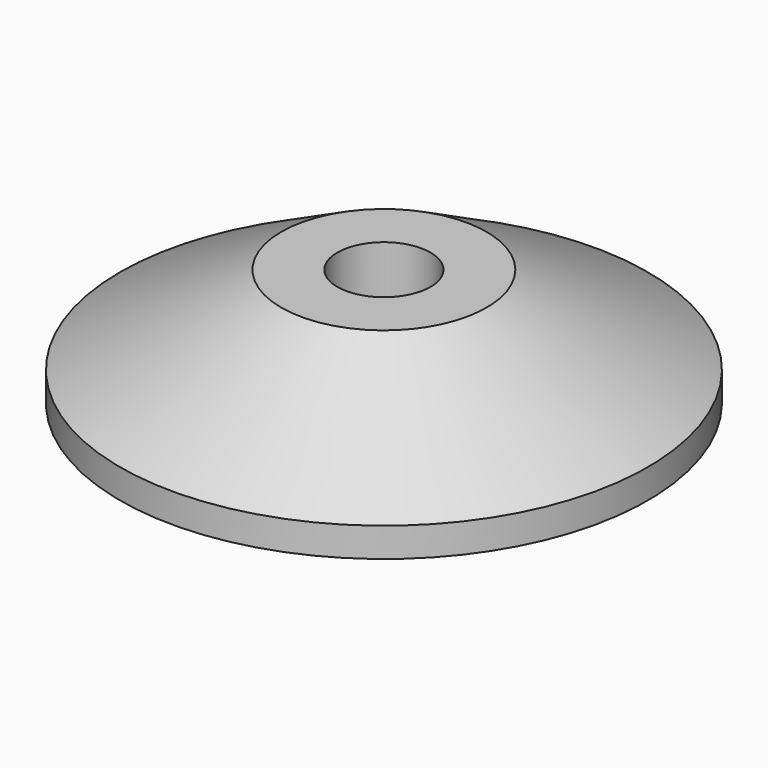
from build123d import *

# Parameters (mm, degrees)
F3_D = 10.0838


with BuildPart() as f1:
    # F0 (on Front) → F1 (revolve)
    with BuildSketch(Plane.XZ):
        Polygon((-28.575, 0), (0, 0), (0, 12.7), (-11.1125, 12.7), (-28.575, 3.175), align=None)
    revolve(axis=Axis((0, 0, 6.35), (0, 0, -1)))

    # F3 (through all)
    with Locations(Plane.XY.offset(12.7)):
        with Locations((0, 0)):
            Hole(F3_D / 2)


solid = f1.part
